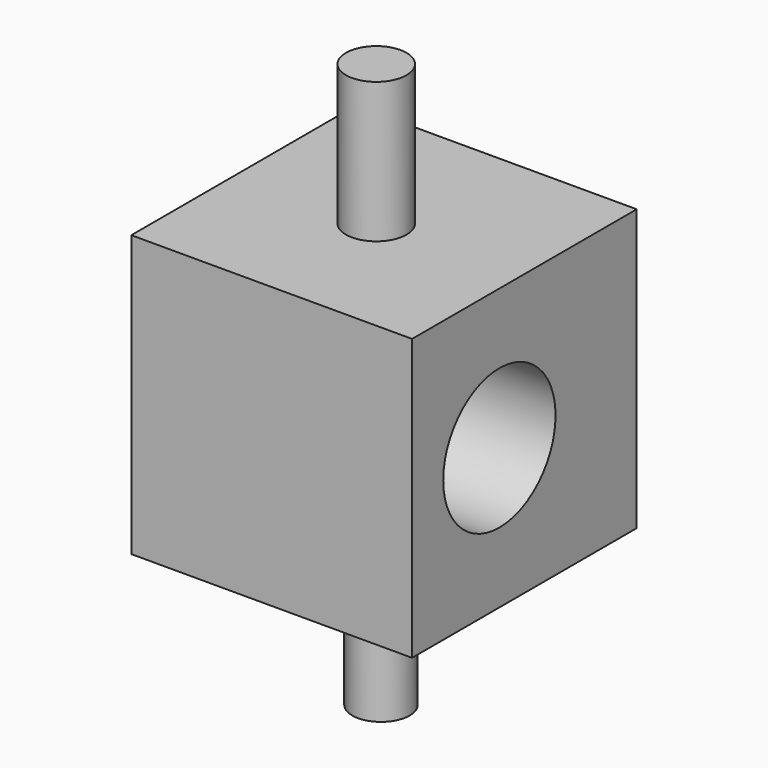
from build123d import *

# Parameters (mm, degrees)
F0_W     = 99.999961
F0_H     = 100
F1_DEPTH = 100
F2_R     = 10.792816
F3_DEPTH = 50
F5_R     = 10.230309
F6_DEPTH = 50
F8_D     = 50


with BuildPart() as f1:
    # F0 (on Front) → F1 (new body)
    with BuildSketch(Plane.XZ):
        with Locations((49.99998, 50)):
            Rectangle(F0_W, F0_H)
    extrude(amount=F1_DEPTH)

    # F2 (on face) → F3 (join)
    with BuildSketch(Plane.XY.offset(100)):
        with Locations((48.785694, -51.932942)):
            Circle(F2_R)
    extrude(amount=F3_DEPTH)

    # F5 (on face) → F6 (join)
    with BuildSketch(Plane(origin=(0, 0, 0), x_dir=(1, 0, 0), z_dir=(0, 0, -1))):
        with Locations((50.976809, 52.556667)):
            Circle(F5_R)
    extrude(amount=F6_DEPTH)

    # F8 (through all)
    with Locations(Plane.YZ.offset(99.999961)):
        with Locations((-61.129767, 50.035987)):
            Hole(F8_D / 2)


solid = f1.part
